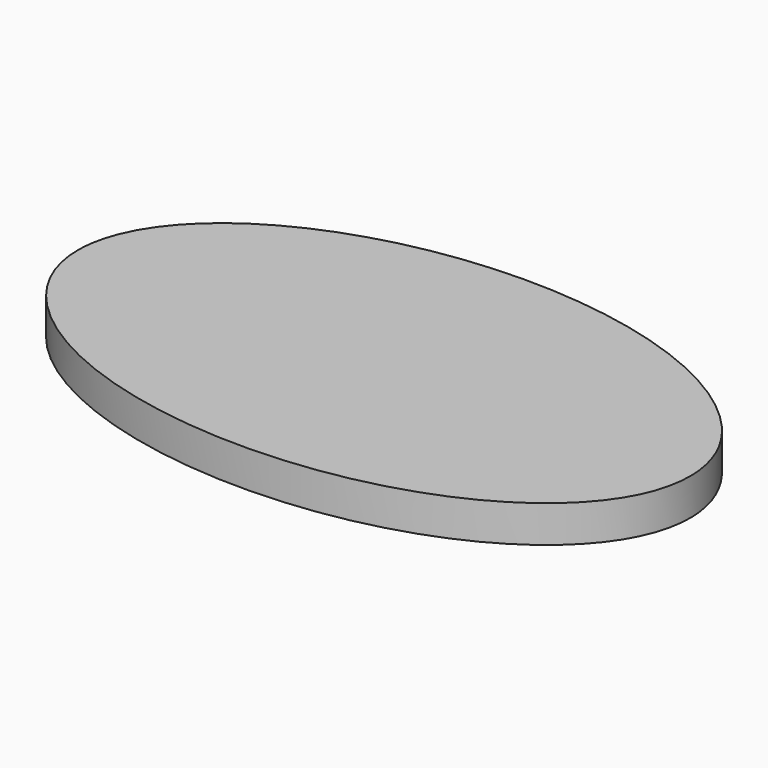
from build123d import *

# Parameters (mm, degrees)
F1_DEPTH = 10
F2_R     = 10
F3_DEPTH = 5


with BuildPart() as f1:
    # F0 (on Top) → F1 (new body)
    with BuildSketch(Plane.XY):
        with BuildLine():
            add(Edge.make_bspline(
                [(-83.101608, 0), (-83.101608, -84.154294), (41.550804, -42.077147), (166.203216, 0), (41.550804, 42.077147), (-83.101608, 84.154294), (-83.101608, 0)],
                knots=[0, 0, 0, 2.094395, 2.094395, 4.18879, 4.18879, 6.283185, 6.283185, 6.283185], degree=2, weights=[1, 0.5, 1, 0.5, 1, 0.5, 1]))
        make_face()
    extrude(amount=F1_DEPTH)

    # F2 (on face) → F3 (cut)
    with BuildSketch(Plane(origin=(0, 0, 0), x_dir=(1, 0, 0), z_dir=(0, 0, -1))):
        with Locations((0, 30)):
            Circle(F2_R)
        with Locations((-60, 0)):
            Circle(F2_R)
        with Locations((0, -30)):
            Circle(F2_R)
        with Locations((60, 0)):
            Circle(F2_R)
    extrude(amount=-F3_DEPTH, mode=Mode.SUBTRACT)


solid = f1.part
